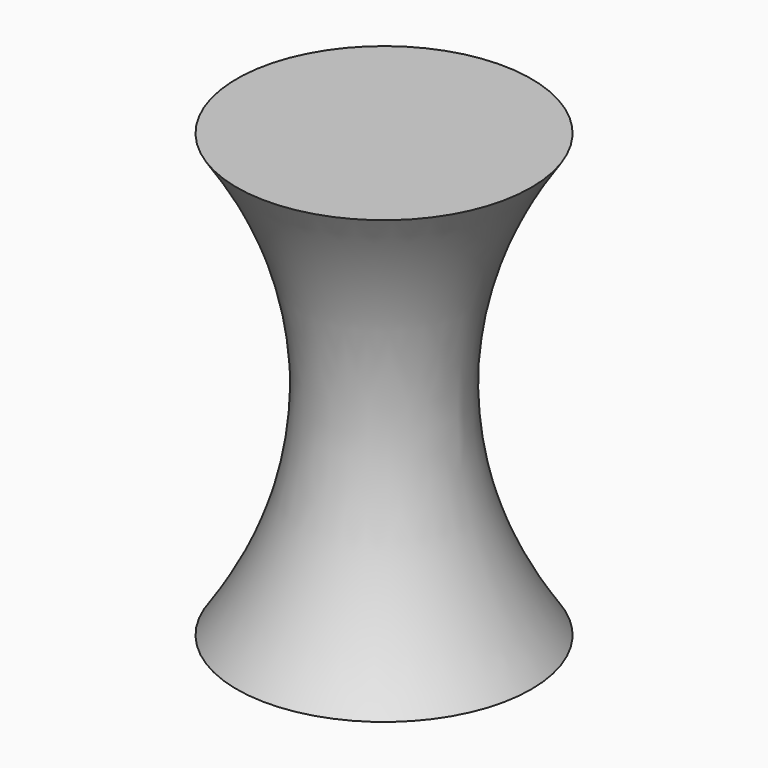
from build123d import *


with BuildPart() as f1:
    # F0 (on Front) → F1 (revolve)
    with BuildSketch(Plane.XZ):
        with BuildLine():
            Line((0, 60), (0, 56.724097))
            Line((0, 56.724097), (0, -56.681433))
            Line((0, -56.681433), (0, -60))
            Line((0, -60), (40, -60))
            add(Edge.make_bspline(
                [(40, 60), (26.221253, 40), (13.778747, 0), (26.221253, -40), (40, -60)],
                knots=[0, 0, 0, 0, 63.245553, 126.491106, 126.491106, 126.491106, 126.491106], degree=3))
            Line((40, 60), (0, 60))
        make_face()
    revolve(axis=Axis((0, 0, 0), (0, 0, -1)))


solid = f1.part
